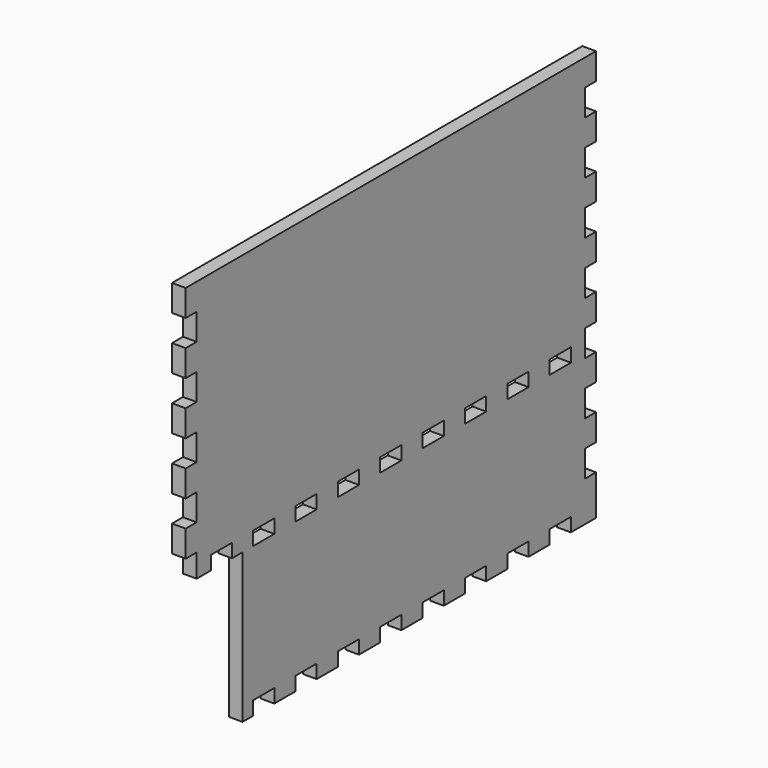
from build123d import *

# Parameters (mm, degrees)
F0_W      = 220
F0_H      = 180
F1_DEPTH  = 6.2
F2_W      = 12
F2_H      = 6.2
F3_DEPTH  = 6.201
F5_DEPTH  = 6.201
F6_W      = 6.2
F6_H      = 12
F7_DEPTH  = 6.2
F8_W      = 6
F8_H      = 6.2
F8_W_2    = 12
F9_DEPTH  = 6.2
F10_W     = 2.2
F10_H     = 6.2
F11_DEPTH = 6.2


with BuildPart() as f1:
    # F0 (on Right) → F1 (new body)
    with BuildSketch(Plane.YZ):
        Rectangle(F0_W, F0_H)
    extrude(amount=F1_DEPTH)

    # F2 (on face) → F3 (cut, through all)
    with BuildSketch(Plane.YZ.offset(6.2)):
        with Locations((-96, -25.4)):
            Rectangle(F2_W, F2_H)
        with Locations((-72, -25.4)):
            Rectangle(F2_W, F2_H)
        with Locations((-48, -25.4)):
            Rectangle(F2_W, F2_H)
        with Locations((-24, -25.4)):
            Rectangle(F2_W, F2_H)
        with Locations((0, -25.4)):
            Rectangle(F2_W, F2_H)
        with Locations((24, -25.4)):
            Rectangle(F2_W, F2_H)
        with Locations((48, -25.4)):
            Rectangle(F2_W, F2_H)
        with Locations((72, -25.4)):
            Rectangle(F2_W, F2_H)
        with Locations((96, -25.4)):
            Rectangle(F2_W, F2_H)
    extrude(amount=-F3_DEPTH, mode=Mode.SUBTRACT)

    # F4 (on face) → F5 (cut, through all)
    with BuildSketch(Plane.YZ.offset(6.2)):
        Polygon((-84, -90), (-84, -28.5), (-90, -28.5), (-102, -28.5), (-110, -28.5), (-110, -90), align=None)
    extrude(amount=-F5_DEPTH, mode=Mode.SUBTRACT)

    # F6 (on face) → F7 (join)
    with BuildSketch(Plane.YZ.offset(6.2)):
        with Locations((113.1, 12)):
            Rectangle(F6_W, F6_H)
        with Locations((113.1, 36)):
            Rectangle(F6_W, F6_H)
        with Locations((113.1, 60)):
            Rectangle(F6_W, F6_H)
        with Locations((113.1, 84)):
            Rectangle(F6_W, F6_H)
        with Locations((113.1, -12)):
            Rectangle(F6_W, F6_H)
        with Locations((113.1, -36)):
            Rectangle(F6_W, F6_H)
        with Locations((113.1, -60)):
            Rectangle(F6_W, F6_H)
        with Locations((113.1, -84)):
            Rectangle(F6_W, F6_H)
        with Locations((-113.1, 12)):
            Rectangle(F6_W, F6_H)
        with Locations((-113.1, -12)):
            Rectangle(F6_W, F6_H)
        with Locations((-113.1, 36)):
            Rectangle(F6_W, F6_H)
        with Locations((-113.1, 84)):
            Rectangle(F6_W, F6_H)
        with Locations((-113.1, 60)):
            Rectangle(F6_W, F6_H)
    extrude(amount=-F7_DEPTH)

    # F8 (on face) → F9 (join)
    with BuildSketch(Plane.YZ.offset(6.2)):
        with Locations((-81, -93.1)):
            Rectangle(F8_W, F8_H)
        with Locations((-60, -93.1)):
            Rectangle(F8_W_2, F8_H)
        with Locations((-36, -93.1)):
            Rectangle(F8_W_2, F8_H)
        with Locations((-12, -93.1)):
            Rectangle(F8_W_2, F8_H)
        with Locations((12, -93.1)):
            Rectangle(F8_W_2, F8_H)
        with Locations((36, -93.1)):
            Rectangle(F8_W_2, F8_H)
        with Locations((60, -93.1)):
            Rectangle(F8_W_2, F8_H)
        with Locations((84, -93.1)):
            Rectangle(F8_W_2, F8_H)
        with Locations((108, -93.1)):
            Rectangle(F8_W_2, F8_H)
    extrude(amount=-F9_DEPTH)

    # F10 (on face) → F11 (join)
    with BuildSketch(Plane.YZ.offset(6.2)):
        with Locations((115.1, -93.1)):
            Rectangle(F10_W, F10_H)
    extrude(amount=-F11_DEPTH)


solid = f1.part
